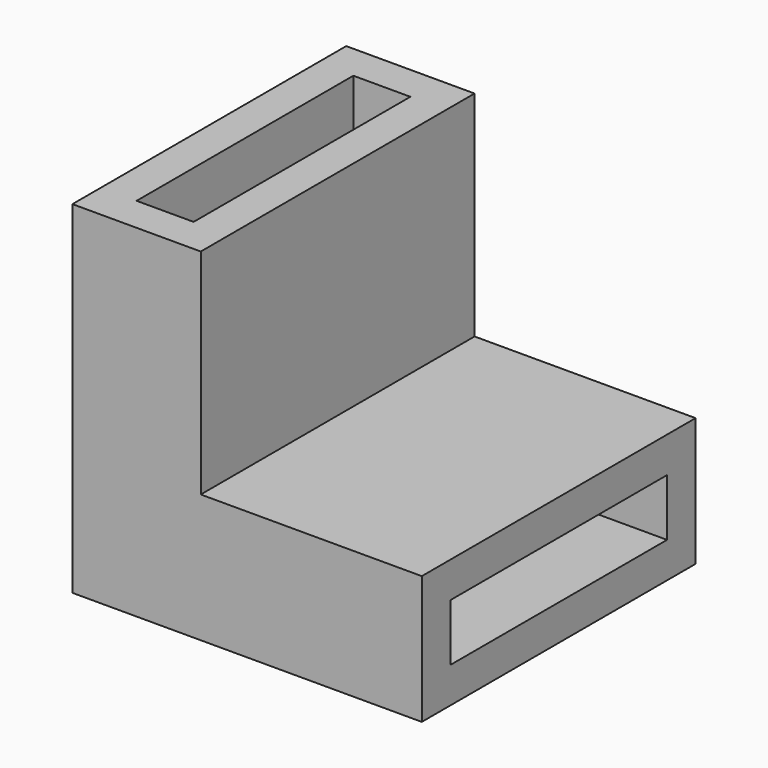
from build123d import *

# Parameters (mm, degrees)
F0_W     = 49
F0_H     = 48
F1_DEPTH = 18
F2_W     = 38
F2_H     = 8
F3_DEPTH = 28
F4_W     = 18
F4_H     = 48
F5_DEPTH = 30
F6_W     = 8
F6_H     = 38
F7_DEPTH = 28


with BuildPart() as f1:
    # F0 (on Top) → F1 (new body)
    with BuildSketch(Plane.XY):
        with Locations((-24.5, 24)):
            Rectangle(F0_W, F0_H)
    extrude(amount=F1_DEPTH)

    # F2 (on face) → F3 (cut)
    with BuildSketch(Plane.YZ):
        with Locations((24, 9)):
            Rectangle(F2_W, F2_H)
    extrude(amount=-F3_DEPTH, mode=Mode.SUBTRACT)

    # F4 (on face) → F5 (join)
    with BuildSketch(Plane.XY.offset(18)):
        with Locations((-40, 24)):
            Rectangle(F4_W, F4_H)
    extrude(amount=F5_DEPTH)

    # F6 (on face) → F7 (cut)
    with BuildSketch(Plane.XY.offset(48)):
        with Locations((-40, 24)):
            Rectangle(F6_W, F6_H)
    extrude(amount=-F7_DEPTH, mode=Mode.SUBTRACT)


solid = f1.part
